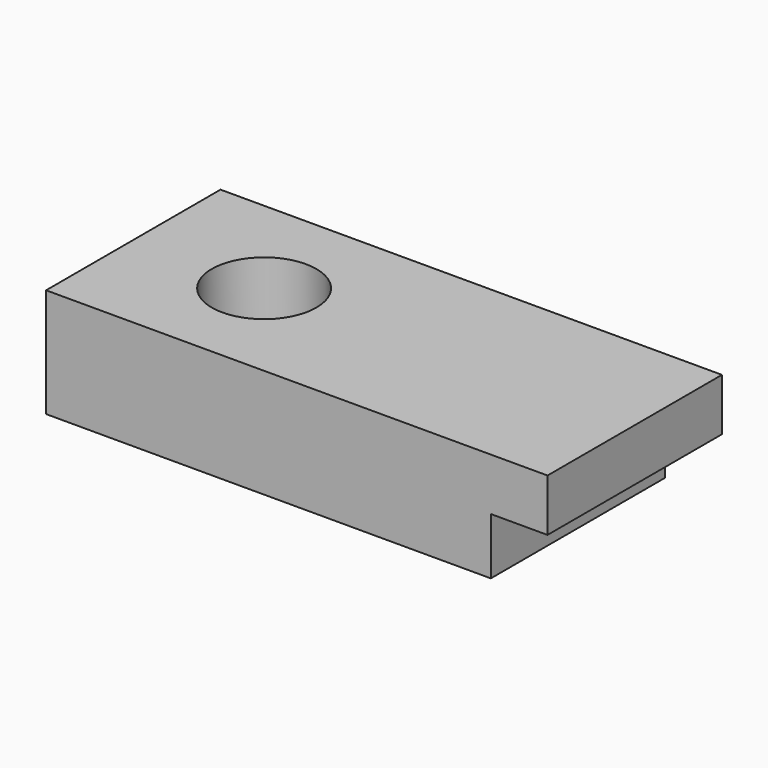
from build123d import *

# Parameters (mm, degrees)
F1_DEPTH = 25
F2_R     = 6
F3_DEPTH = 12.501


with BuildPart() as f1:
    # F0 (on Front) → F1 (new body)
    with BuildSketch(Plane.XZ):
        Polygon((0, 12.5), (0, 0), (51, 0), (51, 6.5), (57.5, 6.5), (57.5, 12.5), align=None)
    extrude(amount=F1_DEPTH)

    # F2 (on face) → F3 (cut, through all)
    with BuildSketch(Plane.XY.offset(12.5)):
        with Locations((15, -12.5)):
            Circle(F2_R)
    extrude(amount=-F3_DEPTH, mode=Mode.SUBTRACT)


solid = f1.part
